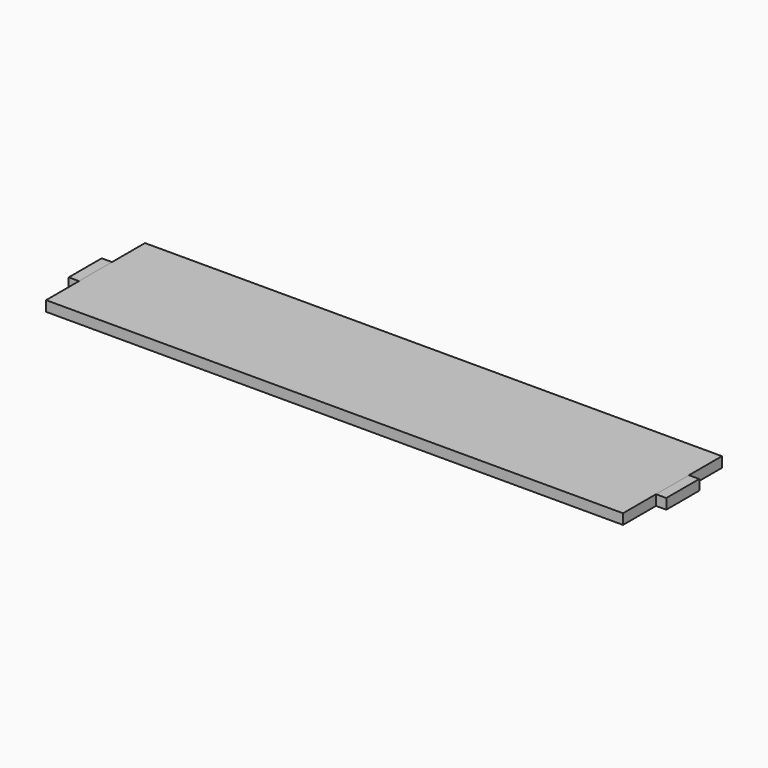
from build123d import *

# Parameters (mm, degrees)
F0_W     = 177.8
F0_H     = 38.1
F3_DEPTH = 3.175
F1_W     = 3.175
F1_H     = 12.7
F2_W     = 3.175
F2_H     = 12.7


with BuildPart() as f3:
    # F0 (on Top) → F3 (new body)
    with BuildSketch(Plane.XY):
        with Locations((-88.9, -19.05)):
            Rectangle(F0_W, F0_H)
    extrude(amount=F3_DEPTH)


with BuildPart() as f3b:
    # F1 (on face) → F3, piece 2 (new body)
    with BuildSketch(Plane.XY):
        with Locations((1.5875, -19.05)):
            Rectangle(F1_W, F1_H)
    extrude(amount=F3_DEPTH)


with BuildPart() as f3c:
    # F2 (on face) → F3, piece 3 (new body)
    with BuildSketch(Plane.XY):
        with Locations((-179.3875, -19.05)):
            Rectangle(F2_W, F2_H)
    extrude(amount=F3_DEPTH)


solid = Compound([f3.part, f3b.part, f3c.part])
